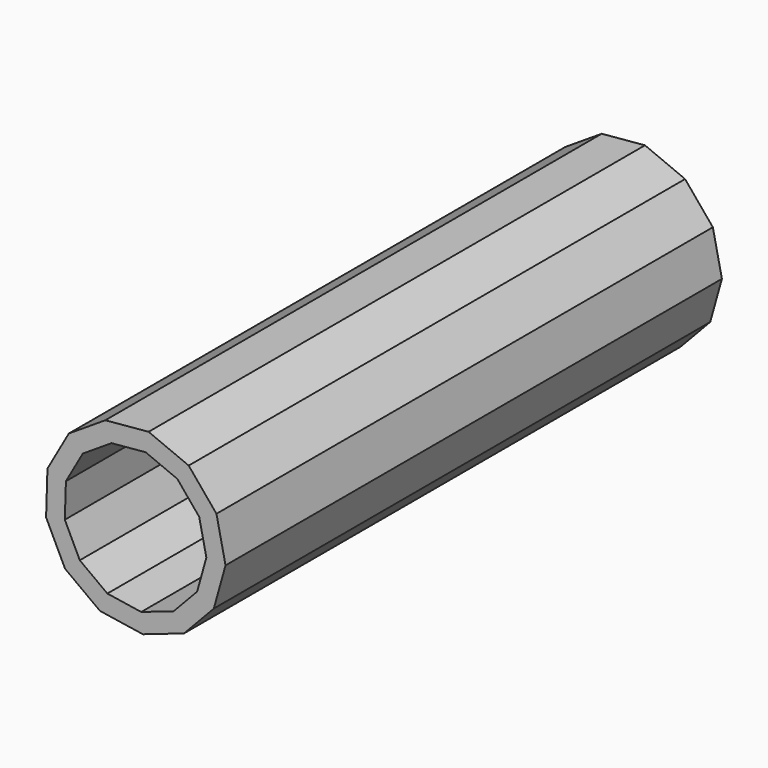
from build123d import *

# Parameters (mm, degrees)
F1_DEPTH = 1000
F2_T     = -30


with BuildPart() as f1:
    # F0 (on Front) → F1 (new body)
    with BuildSketch(Plane.XZ):
        Polygon((-106.373661, 100.368369), (-140.832706, 39.437472), (-143.028675, -30.528075), (-112.458499, -93.500007), (-56.125435, -135.052215), (13.065289, -145.665588), (79.262913, -122.90873), (127.302359, -71.994963), (146.178368, -4.588018), (131.566675, 63.869987), (86.814643, 117.696147), (22.174421, 144.559539), (-47.545692, 138.306082), align=None)
    extrude(amount=F1_DEPTH)

    # F2
    f2_openings = [f1.faces().sort_by_distance(p)[0] for p in [
        (0, -1000, 0),
    ]]
    offset(amount=F2_T, openings=f2_openings)


solid = f1.part
